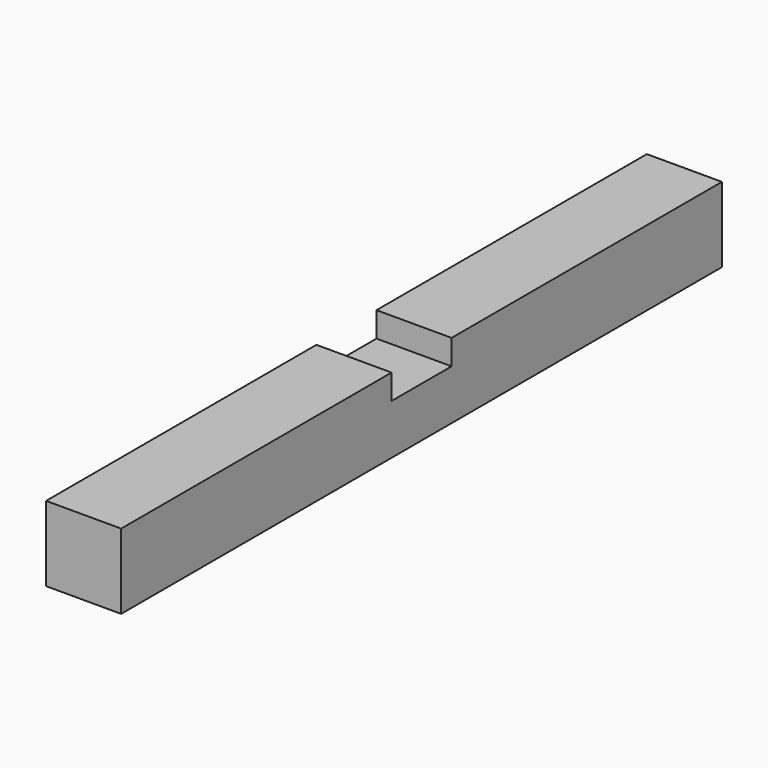
from build123d import *

# Parameters (mm, degrees)
F1_DEPTH = 20
F2_W     = 30
F2_H     = 135
F3_DEPTH = 10


with BuildPart() as f1:
    # F0 (on Top) → F1 (new body)
    with BuildSketch(Plane.XY):
        Polygon((-0.287094, 165), (-30.287094, 165), (-30.287094, 30), (-30.287094, 0), (-30.287094, -135), (-0.287094, -135), (-0.287094, 30), align=None)
    extrude(amount=F1_DEPTH)

    # F2 (on face) → F3 (join)
    with BuildSketch(Plane.XY.offset(20)):
        with Locations((-15.287094, -67.5)):
            Rectangle(F2_W, F2_H)
        with Locations((-15.287094, 97.5)):
            Rectangle(F2_W, F2_H)
    extrude(amount=F3_DEPTH)


solid = f1.part
